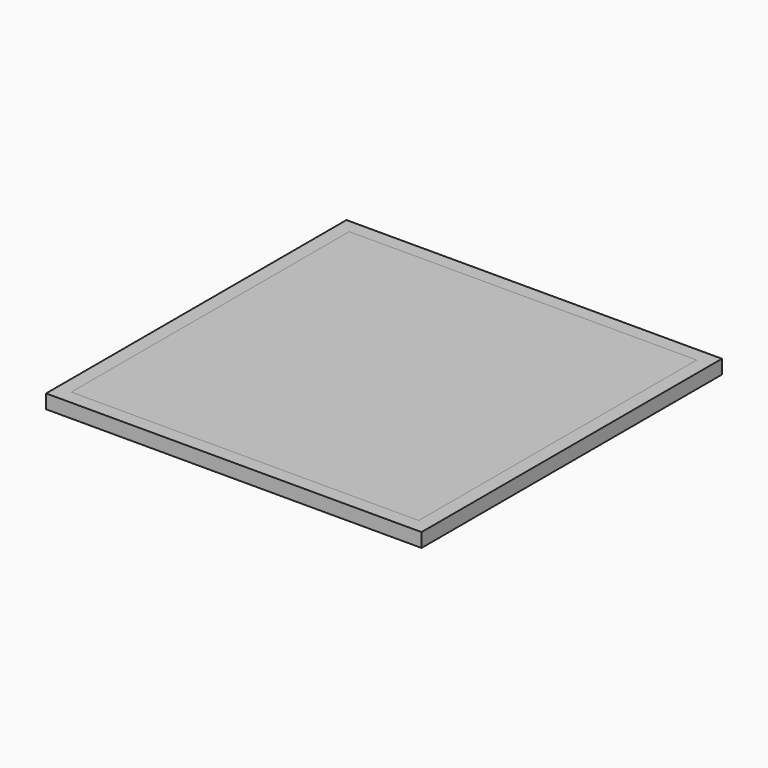
from build123d import *

# Parameters (mm, degrees)
F0_W     = 596.9
F0_H     = 596.9
F0_W_2   = 552.45
F0_H_2   = 552.45
F1_DEPTH = 22.225
F2_W     = 552.45
F2_H     = 552.45
F3_DEPTH = 22.225


with BuildPart() as f1:
    # F0 (on Top) → F1 (new body)
    with BuildSketch(Plane.XY):
        Rectangle(F0_W, F0_H)
        Rectangle(F0_W_2, F0_H_2, mode=Mode.SUBTRACT)
    extrude(amount=F1_DEPTH)


with BuildPart() as f3:
    # F2 (on Top) → F3 (new body)
    with BuildSketch(Plane.XY):
        Rectangle(F2_W, F2_H)
    extrude(amount=F3_DEPTH)


solid = Compound([f1.part, f3.part])
